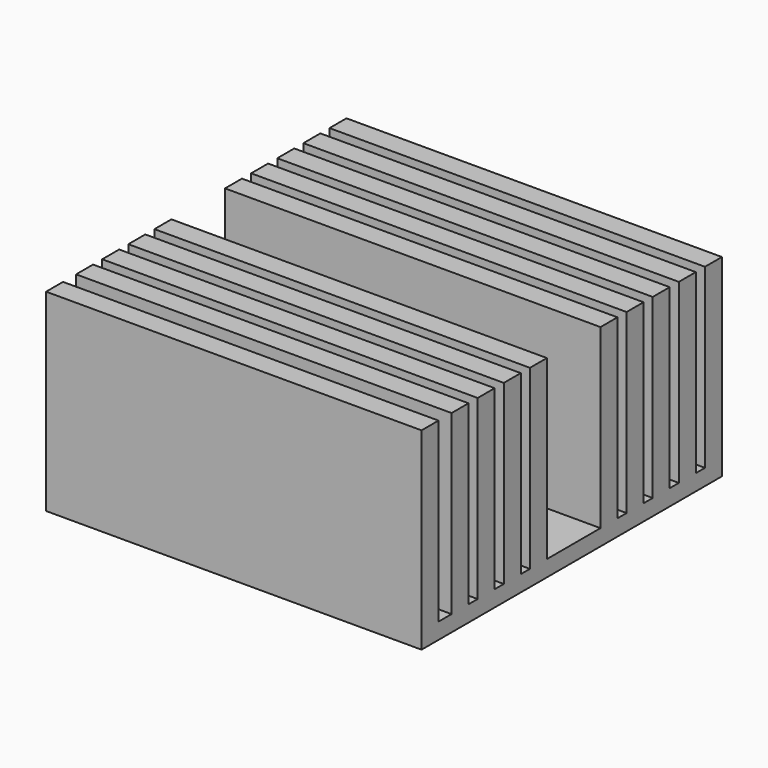
from build123d import *

# Parameters (mm, degrees)
BOX_W                = 35
BOX_H                = 35
BOX_DEPTH            = 1.5
BOX017_W             = 1.9755
BOX017_H             = 35
BOX017_DEPTH         = 16.5
BOX018_W             = 1.9755
BOX018_H             = 35
BOX018_DEPTH         = 16.5
BOX019_W             = 1.9755
BOX019_H             = 35
BOX019_DEPTH         = 16.5
BOX020_W             = 1.9755
BOX020_H             = 35
BOX020_DEPTH         = 16.5
BOX021_W             = 1.9755
BOX021_H             = 35
BOX021_DEPTH         = 16.5
BOX022_W             = 1.9755
BOX022_H             = 35
BOX022_DEPTH         = 16.5
BOX023_W             = 1.9755
BOX023_H             = 35
BOX023_DEPTH         = 16.5
BOX024_W             = 1.9755
BOX024_H             = 35
BOX024_DEPTH         = 16.5
BOX025_W             = 1.9755
BOX025_H             = 35
BOX025_DEPTH         = 16.5
BOX026_W             = 1.9755
BOX026_H             = 35
BOX026_DEPTH         = 16.5
BODY_PLACEMENT_ANGLE = 90


with BuildPart() as part:
    # Box → Box (join)
    with BuildSketch(Plane(origin=(-17.5, -17.5, 0), x_dir=(1, 0, 0), z_dir=(0, 0, 1))):
        with Locations((17.5, 17.5)):
            Rectangle(BOX_W, BOX_H)
    extrude(amount=BOX_DEPTH)

    # Box017 → Box017 (join)
    with BuildSketch(Plane(origin=(15.5245, -17.5, 1.5), x_dir=(1, 0, 0), z_dir=(0, 0, 1))):
        with Locations((0.98775, 17.5)):
            Rectangle(BOX017_W, BOX017_H)
    extrude(amount=BOX017_DEPTH)

    # Box018 → Box018 (join)
    with BuildSketch(Plane(origin=(12.481022, -17.5, 1.5), x_dir=(1, 0, 0), z_dir=(0, 0, 1))):
        with Locations((0.98775, 17.5)):
            Rectangle(BOX018_W, BOX018_H)
    extrude(amount=BOX018_DEPTH)

    # Box019 → Box019 (join)
    with BuildSketch(Plane(origin=(9.437544, -17.5, 1.5), x_dir=(1, 0, 0), z_dir=(0, 0, 1))):
        with Locations((0.98775, 17.5)):
            Rectangle(BOX019_W, BOX019_H)
    extrude(amount=BOX019_DEPTH)

    # Box020 → Box020 (join)
    with BuildSketch(Plane(origin=(6.394066, -17.5, 1.5), x_dir=(1, 0, 0), z_dir=(0, 0, 1))):
        with Locations((0.98775, 17.5)):
            Rectangle(BOX020_W, BOX020_H)
    extrude(amount=BOX020_DEPTH)

    # Box021 → Box021 (join)
    with BuildSketch(Plane(origin=(3.350588, -17.5, 1.5), x_dir=(1, 0, 0), z_dir=(0, 0, 1))):
        with Locations((0.98775, 17.5)):
            Rectangle(BOX021_W, BOX021_H)
    extrude(amount=BOX021_DEPTH)

    # Box022 → Box022 (join)
    with BuildSketch(Plane(origin=(-4.872327, -17.5, 1.5), x_dir=(1, 0, 0), z_dir=(0, 0, 1))):
        with Locations((0.98775, 17.5)):
            Rectangle(BOX022_W, BOX022_H)
    extrude(amount=BOX022_DEPTH)

    # Box023 → Box023 (join)
    with BuildSketch(Plane(origin=(-7.915805, -17.5, 1.5), x_dir=(1, 0, 0), z_dir=(0, 0, 1))):
        with Locations((0.98775, 17.5)):
            Rectangle(BOX023_W, BOX023_H)
    extrude(amount=BOX023_DEPTH)

    # Box024 → Box024 (join)
    with BuildSketch(Plane(origin=(-10.959283, -17.5, 1.5), x_dir=(1, 0, 0), z_dir=(0, 0, 1))):
        with Locations((0.98775, 17.5)):
            Rectangle(BOX024_W, BOX024_H)
    extrude(amount=BOX024_DEPTH)

    # Box025 → Box025 (join)
    with BuildSketch(Plane(origin=(-14.002761, -17.5, 1.5), x_dir=(1, 0, 0), z_dir=(0, 0, 1))):
        with Locations((0.98775, 17.5)):
            Rectangle(BOX025_W, BOX025_H)
    extrude(amount=BOX025_DEPTH)

    # Box026 → Box026 (join)
    with BuildSketch(Plane(origin=(-17.5, -17.5, 1.5), x_dir=(1, 0, 0), z_dir=(0, 0, 1))):
        with Locations((0.98775, 17.5)):
            Rectangle(BOX026_W, BOX026_H)
    extrude(amount=BOX026_DEPTH)


with BuildPart() as part_1:
    # Body placement: moved
    add(part.part.moved(Location((0, 0, 0.05))).rotate(Axis((0, 0, 0.05), (0, 0, 1)), BODY_PLACEMENT_ANGLE))


solid = part_1.part
